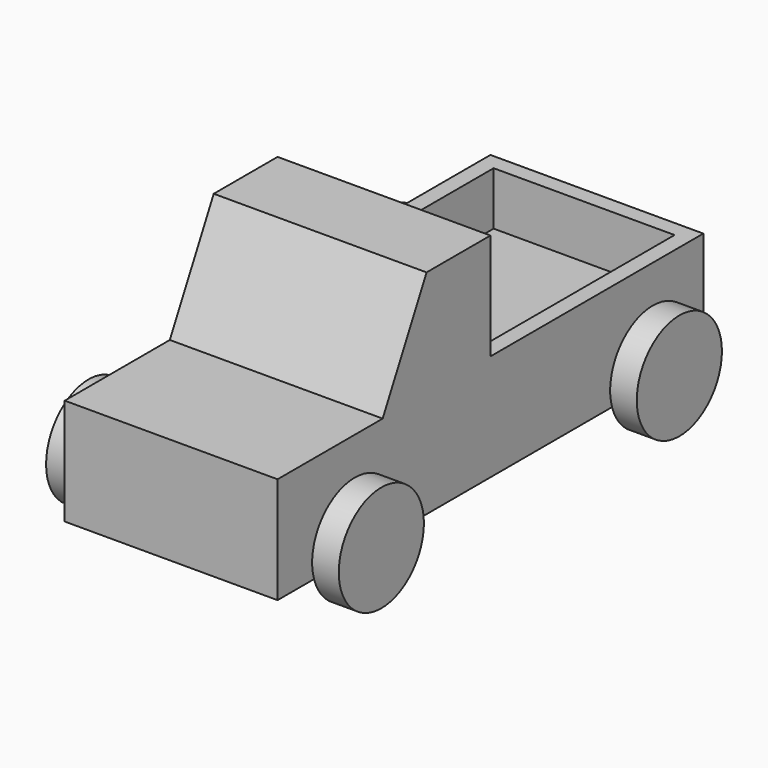
from build123d import *

# Parameters (mm, degrees)
F0_W           = 100
F0_H           = 20
F1_DEPTH       = 20
F3_DEPTH       = 40
F4_R           = 2.5
F5_DEPTH       = 40.001
F6_R           = 2.5
F7_DEPTH       = 40.001
F8_W           = 34
F8_H           = 44
F9_DEPTH       = 10
F10_R          = 1.25
F11_DEPTH      = 2.5
F11_DEPTH_BACK = 42.5
F12_R          = 1.25
F13_DEPTH      = 2.5
F13_DEPTH_BACK = 42.5
F14_R          = 10
F15_DEPTH      = 5
F16_R          = 10
F17_DEPTH      = 5
F18_R          = 10
F19_DEPTH      = 5
F20_R          = 10
F21_DEPTH      = 5


with BuildPart() as f1:
    # F0 (on Right) → F1 (new body, symmetric)
    with BuildSketch(Plane.YZ):
        Rectangle(F0_W, F0_H)
    extrude(amount=F1_DEPTH, both=True)

    # F2 (on face) → F3 (join)
    with BuildSketch(Plane.YZ.offset(20)):
        Polygon((-25.30775, 10), (0, 10), (0, 30), (-15, 30), align=None)
    extrude(amount=-F3_DEPTH)

    # F4 (on face) → F5 (cut, through all)
    with BuildSketch(Plane.YZ.offset(20)):
        with Locations((-35, -5)):
            Circle(F4_R)
    extrude(amount=-F5_DEPTH, mode=Mode.SUBTRACT)

    # F6 (on face) → F7 (cut, through all)
    with BuildSketch(Plane.YZ.offset(20)):
        with Locations((35, -5)):
            Circle(F6_R)
    extrude(amount=-F7_DEPTH, mode=Mode.SUBTRACT)

    # F8 (on face) → F9 (cut)
    with BuildSketch(Plane.XY.offset(10)):
        with Locations((0, 25)):
            Rectangle(F8_W, F8_H)
    extrude(amount=-F9_DEPTH, mode=Mode.SUBTRACT)


with BuildPart() as f11:
    # F10 (on face) → F11 (new body, two sides)
    with BuildSketch(Plane.YZ.offset(20)) as f11_sk:
        with Locations((-35, -5)):
            Circle(F10_R)
    extrude(amount=F11_DEPTH)
    extrude(f11_sk.sketch, amount=-F11_DEPTH_BACK)

    # F14 (on face) → F15 (join)
    with BuildSketch(Plane.YZ.offset(22.5)):
        with Locations((-35, -5)):
            Circle(F14_R)
    extrude(amount=F15_DEPTH)

    # F16 (on face) → F17 (join)
    with BuildSketch(Plane(origin=(-22.5, 0, 0), x_dir=(0, -1, 0), z_dir=(-1, 0, 0))):
        with Locations((35, -5)):
            Circle(F16_R)
    extrude(amount=F17_DEPTH)


with BuildPart() as f13:
    # F12 (on face) → F13 (new body, two sides)
    with BuildSketch(Plane.YZ.offset(20)) as f13_sk:
        with Locations((35, -5)):
            Circle(F12_R)
    extrude(amount=F13_DEPTH)
    extrude(f13_sk.sketch, amount=-F13_DEPTH_BACK)

    # F18 (on face) → F19 (join)
    with BuildSketch(Plane(origin=(-22.5, 0, 0), x_dir=(0, -1, 0), z_dir=(-1, 0, 0))):
        with Locations((-35, -5)):
            Circle(F18_R)
    extrude(amount=F19_DEPTH)

    # F20 (on face) → F21 (join)
    with BuildSketch(Plane.YZ.offset(22.5)):
        with Locations((35, -5)):
            Circle(F20_R)
    extrude(amount=F21_DEPTH)


solid = Compound([f1.part, f11.part, f13.part])
